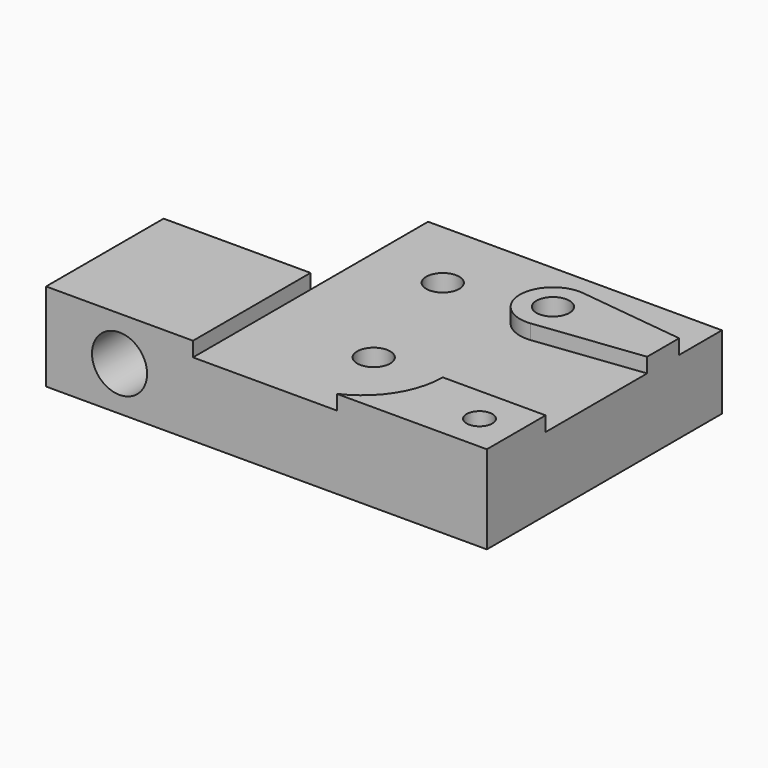
from build123d import *

# Parameters (mm, degrees)
SKETCH_R                       = 2.25
SKETCH_R_2                     = 1.75
PAD_DEPTH                      = 12
POCKET_DEPTH                   = 2
SKETCH002_R                    = 2.25
POCKET002_DEPTH                = 20.001
PART_MIRRORING_PLACEMENT_ANGLE = 180
SKETCH003_R                    = 3
POCKET003_DEPTH                = 8
SKETCH004_R                    = 3.75
POCKET004_DEPTH                = 10


with BuildPart() as pocket002:
    # Sketch → Pad (new body)
    with BuildSketch(Plane.XY):
        Polygon((0, -20), (40, -20), (40, 20), (-20, 20), (-20, 0), (0, 0), align=None)
        with Locations((15, 8)):
            Circle(SKETCH_R, mode=Mode.SUBTRACT)
        with Locations((10, -10)):
            Circle(SKETCH_R, mode=Mode.SUBTRACT)
        with Locations((35, 15)):
            Circle(SKETCH_R_2, mode=Mode.SUBTRACT)
        with Locations((25, -10)):
            Circle(SKETCH_R, mode=Mode.SUBTRACT)
    extrude(amount=PAD_DEPTH)

    # Sketch001 → Pocket (cut)
    with BuildSketch(Plane.XY.offset(12)):
        with BuildLine():
            Line((46, 10), (26, 10))
            ThreePointArc((26, 10), (22.778175, 17.778175), (15, 21))
            Line((15, 21), (0, 21))
            Line((0, 21), (0, -23))
            Line((0, -23), (46, -23))
            Line((46, -23), (46, -12))
            Line((25.538775, -14.46763), (46, -12))
            ThreePointArc((25.538775, -5.53237), (20.5, -10), (25.538775, -14.46763))
            Line((25.538775, -5.53237), (46, -8))
            Line((46, -8), (46, 10))
        make_face()
    extrude(amount=-POCKET_DEPTH, mode=Mode.SUBTRACT)

    # Sketch002 → Pocket002 (cut, through all)
    with BuildSketch(Plane.XZ):
        with Locations((-10, 6)):
            Circle(SKETCH002_R)
    extrude(amount=-POCKET002_DEPTH, mode=Mode.SUBTRACT)


with BuildPart() as pocket004:
    # Part__Mirroring: instance of Pocket002
    add(pocket002.part.mirror(Plane(origin=(0, 0, 0), x_dir=(0, 1, 0), z_dir=(0, 0, 1))))


with BuildPart() as pocket004_1:
    # Part__Mirroring placement: moved
    add(pocket004.part.rotate(Axis((0, 0, 0), (1, 0, 0)), PART_MIRRORING_PLACEMENT_ANGLE))

    # Sketch003 → Pocket003 (cut)
    with BuildSketch(Plane(origin=(0, 0, 0), x_dir=(1, 0, 0), z_dir=(0, 0, -1))):
        with Locations((35, 15)):
            Circle(SKETCH003_R)
    extrude(amount=-POCKET003_DEPTH, mode=Mode.SUBTRACT)

    # Sketch004 → Pocket004 (cut)
    with BuildSketch(Plane(origin=(0, -20, 0), x_dir=(-1, 0, 0), z_dir=(0, -1, 0))):
        with Locations((10, -6)):
            Circle(SKETCH004_R)
    extrude(amount=-POCKET004_DEPTH, mode=Mode.SUBTRACT)


solid = pocket004_1.part
